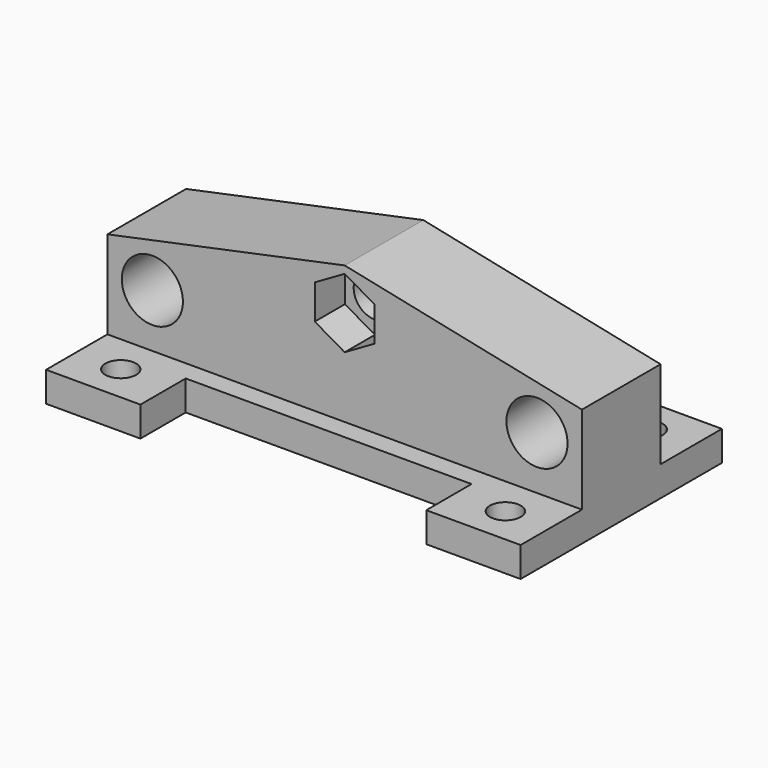
from build123d import *

# Parameters (mm, degrees)
F0_W      = 100.584
F0_H      = 53.34
F1_DEPTH  = 6.35
F2_W      = 100.584
F2_H      = 20.828
F3_DEPTH  = 29.21
F5_DEPTH  = 8
F7_DEPTH  = 8
F9_D      = 9
F11_D     = 12.954
F13_D     = 6.528
F14_W     = 60.584
F14_H     = 12
F15_DEPTH = 6.35
F16_W     = 60.584
F16_H     = 12
F17_DEPTH = 6.35
F19_DEPTH = 20.828


with BuildPart() as f1:
    # F0 (on Top) → F1 (new body)
    with BuildSketch(Plane.XY):
        with Locations((2.149524, 1.085451)):
            Rectangle(F0_W, F0_H)
    extrude(amount=F1_DEPTH)

    # F2 (on face) → F3 (join)
    with BuildSketch(Plane.XY.offset(6.35)):
        with Locations((2.149524, 1.085451)):
            Rectangle(F2_W, F2_H)
    extrude(amount=F3_DEPTH)

    # F4 (on face) → F5 (cut)
    with BuildSketch(Plane.XZ.offset(9.328549)):
        Polygon((8.489524, 23.020798), (8.489524, 30.341599), (2.149524, 34.002), (-4.190476, 30.341599), (-4.190476, 23.020798), (2.149524, 19.360397), align=None)
    extrude(amount=-F5_DEPTH, mode=Mode.SUBTRACT)

    # F6 (on face) → F7 (cut)
    with BuildSketch(Plane(origin=(0, 11.499451, 0), x_dir=(-1, 0, 0), z_dir=(0, 1, 0))):
        Polygon((4.190476, 23.020798), (4.190476, 30.341599), (-2.149524, 34.002), (-8.489524, 30.341599), (-8.489524, 23.020798), (-2.149524, 19.360397), align=None)
    extrude(amount=-F7_DEPTH, mode=Mode.SUBTRACT)

    # F9 (through all)
    with Locations(Plane(origin=(0, 11.499451, 0), x_dir=(-1, 0, 0), z_dir=(0, 1, 0))):
        with Locations((-2.149524, 26.681199)):
            Hole(F9_D / 2)

    # F11 (through all)
    with Locations(Plane.XZ.offset(9.328549)):
        with Locations((42.916524, 17.656), (-38.617476, 17.656)):
            Hole(F11_D / 2)

    # F13 (through all)
    with Locations(Plane.XY.offset(6.35)):
        with Locations((-38.617476, -17.710549), (-38.617476, 19.881451), (42.916524, 19.881451), (42.916524, -17.710549)):
            Hole(F13_D / 2)

    # F14 (on face) → F15 (cut, through all)
    with BuildSketch(Plane.XY.offset(6.35)):
        with Locations((2.149524, 21.755451)):
            Rectangle(F14_W, F14_H)
    extrude(amount=-F15_DEPTH, mode=Mode.SUBTRACT)

    # F16 (on face) → F17 (cut, through all)
    with BuildSketch(Plane.XY.offset(6.35)):
        with Locations((2.149524, -19.584549)):
            Rectangle(F16_W, F16_H)
    extrude(amount=-F17_DEPTH, mode=Mode.SUBTRACT)

    # F18 (on face) → F19 (cut, through all)
    with BuildSketch(Plane.XZ.offset(9.328549)):
        Polygon((-48.142476, 25.013294), (2.149524, 35.56), (-48.142476, 35.56), align=None)
        Polygon((52.441524, 35.56), (2.149524, 35.56), (52.441524, 25.013294), align=None)
    extrude(amount=-F19_DEPTH, mode=Mode.SUBTRACT)


solid = f1.part
